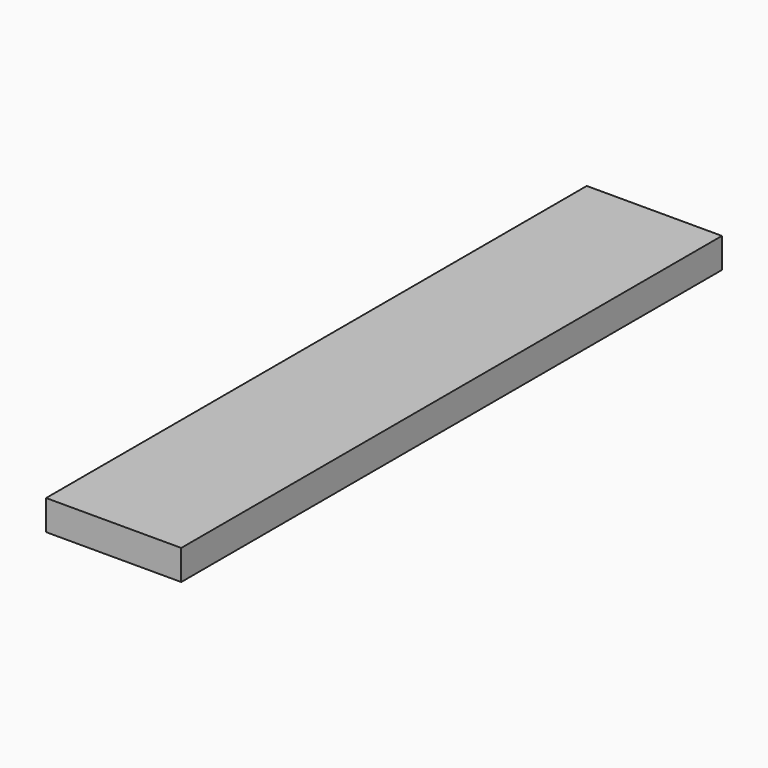
from build123d import *

# Parameters (mm, degrees)
SKETCH_W  = 90
SKETCH_H  = 450
PAD_DEPTH = 20


with BuildPart() as part:
    # Sketch → Pad (new body)
    with BuildSketch(Plane.XY):
        with Locations((-45, 225)):
            Rectangle(SKETCH_W, SKETCH_H)
    extrude(amount=PAD_DEPTH)


solid = part.part
